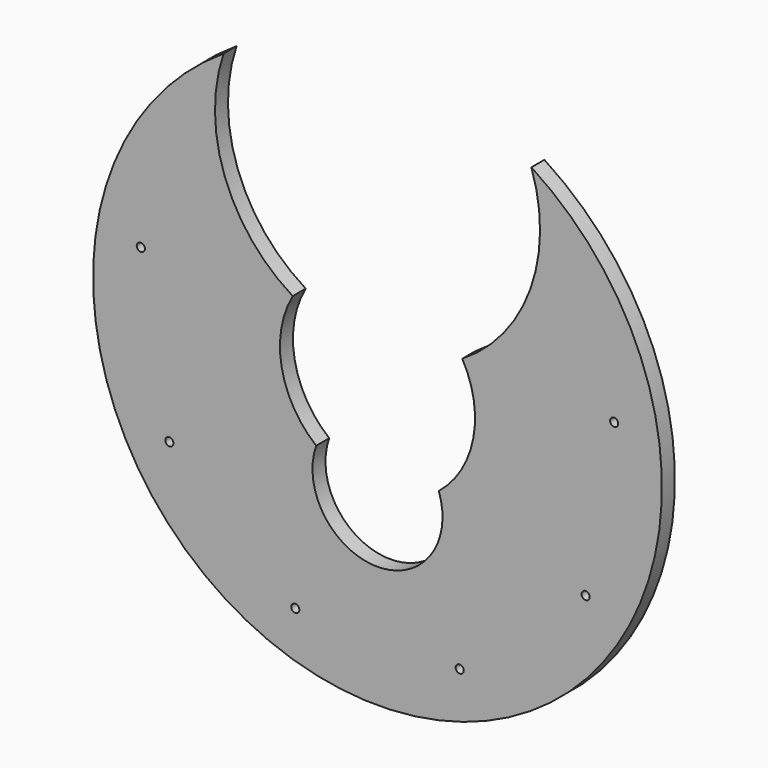
from build123d import *

# Parameters (mm, degrees)
PAD_DEPTH          = 10
SKETCH001_R        = 2.5
POCKET_DEPTH       = 5
POLARPATTERN_COUNT = 9


with BuildPart() as part:
    # Sketch → Pad (new body)
    with BuildSketch(Plane.XZ):
        with BuildLine():
            ThreePointArc((-94.682835, 147.173913), (0, -175), (94.682835, 147.173913))
            ThreePointArc((52.148431, 29.673913), (94.028813, 80.962046), (94.682835, 147.173913))
            ThreePointArc((37.712362, -46.666667), (58.955166, -11.148473), (52.148431, 29.673913))
            ThreePointArc((-37.712362, -46.666667), (0, -100), (37.712362, -46.666667))
            ThreePointArc((-52.148431, 29.673913), (-58.955166, -11.148473), (-37.712362, -46.666667))
            ThreePointArc((-94.682835, 147.173913), (-94.028813, 80.962046), (-52.148431, 29.673913))
        make_face()
    extrude(amount=PAD_DEPTH)

    # Sketch001 (on Face8 of Pad) → Pocket (cut)
    with BuildSketch(Plane.XZ.offset(10)):
        with Locations((0, 147.864497)):
            Circle(SKETCH001_R)
    pocket = extrude(amount=-POCKET_DEPTH, mode=Mode.SUBTRACT)

    # PolarPattern: Pocket ×9 about axis
    polarpattern_axis = Axis((0, -10, 0), (0, -1, 0))
    for i in range(1, POLARPATTERN_COUNT):
        add(pocket.rotate(polarpattern_axis, i * 360 / POLARPATTERN_COUNT), mode=Mode.SUBTRACT)


solid = part.part
